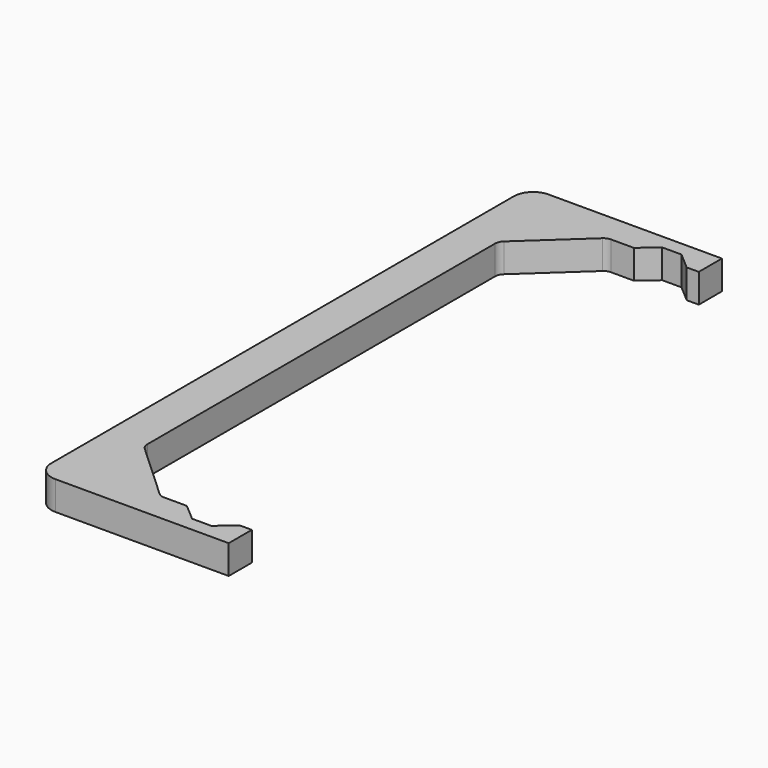
from build123d import *

# Parameters (mm, degrees)
F1_DEPTH = 9.525


with BuildPart() as f1:
    # F0 (on Top) → F1 (new body)
    with BuildSketch(Plane.XY):
        with BuildLine():
            Line((-2.285999, 147.979229), (-46.735999, 147.979229))
            ThreePointArc((-46.735999, 147.979229), (-51.226127, 146.119357), (-53.085999, 141.629229))
            Line((-53.085999, 141.629229), (-53.085999, -48.870771))
            ThreePointArc((-53.085999, -48.870771), (-51.226127, -53.360899), (-46.735999, -55.220771))
            Line((-46.735999, -55.220771), (-2.285999, -55.220771))
            Line((-2.285999, -55.220771), (10.414001, -55.220771))
            Line((10.414001, -55.220771), (10.414001, -45.695771))
            Line((10.414001, -45.695771), (6.426201, -45.695771))
            Line((6.426201, -45.695771), (0.889001, -50.458271))
            Line((0.889001, -50.458271), (-5.460999, -50.458271))
            Line((-5.460999, -50.458271), (-10.998199, -45.695771))
            Line((-10.998199, -45.695771), (-18.507125, -45.695771))
            ThreePointArc((-18.507125, -45.695771), (-19.663271, -45.477788), (-20.660664, -44.853772))
            Line((-20.660664, -44.853772), (-39.364538, -27.588658))
            ThreePointArc((-39.364538, -27.588658), (-40.119444, -26.529065), (-40.385999, -25.255657))
            Line((-40.385999, -25.255657), (-40.385999, 118.014115))
            ThreePointArc((-40.385999, 118.014115), (-40.119444, 119.287523), (-39.364538, 120.347116))
            Line((-39.364538, 120.347116), (-20.660664, 137.61223))
            ThreePointArc((-20.660664, 137.61223), (-19.663271, 138.236246), (-18.507125, 138.454229))
            Line((-18.507125, 138.454229), (-10.998199, 138.454229))
            Line((-10.998199, 138.454229), (-5.460999, 143.216729))
            Line((-5.460999, 143.216729), (0.889001, 143.216729))
            Line((0.889001, 143.216729), (6.426201, 138.454229))
            Line((6.426201, 138.454229), (10.414001, 138.454229))
            Line((10.414001, 138.454229), (10.414001, 147.979229))
            Line((10.414001, 147.979229), (-2.285999, 147.979229))
        make_face()
    extrude(amount=F1_DEPTH)


solid = f1.part
